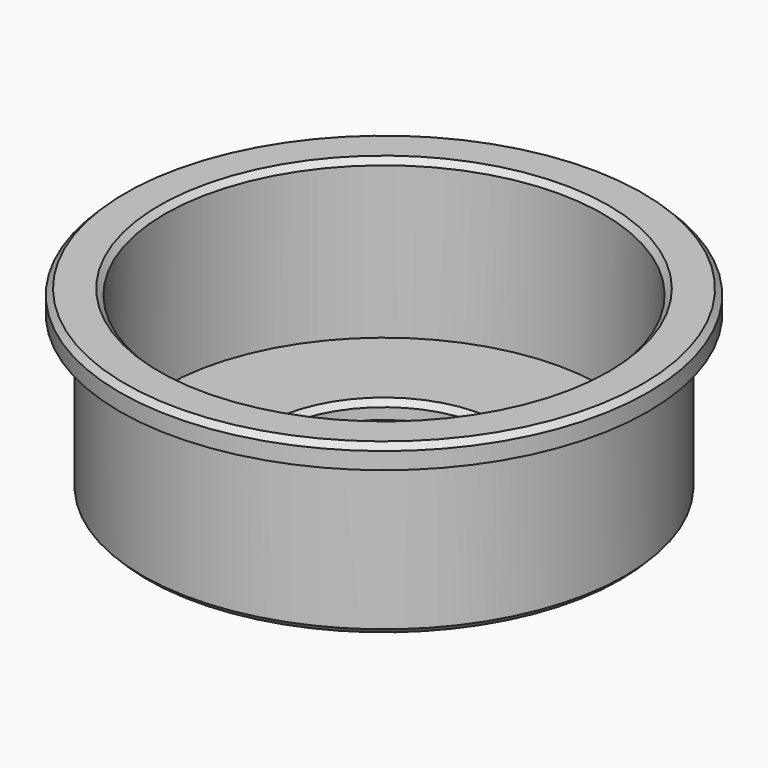
from build123d import *

# Parameters (mm, degrees)
F0_R     = 21.5
F0_R_2   = 10
F1_DEPTH = 2
F2_R     = 21.5
F2_R_2   = 19.5
F3_DEPTH = 12
F4_R     = 23.5
F4_R_2   = 21.5
F4_R_3   = 19.5
F5_DEPTH = 2
F6_SIZE  = 0.5
F7_SIZE  = 0.5
F8_SIZE  = 0.5


with BuildPart() as f1:
    # F0 (on Top) → F1 (new body)
    with BuildSketch(Plane.XY):
        Circle(F0_R)
        Circle(F0_R_2, mode=Mode.SUBTRACT)
    extrude(amount=F1_DEPTH)

    # F2 (on face) → F3 (join)
    with BuildSketch(Plane.XY.offset(2)):
        Circle(F2_R)
        Circle(F2_R_2, mode=Mode.SUBTRACT)
    extrude(amount=F3_DEPTH)

    # F4 (on face) → F5 (join)
    with BuildSketch(Plane.XY.offset(14)):
        Circle(F4_R)
        Circle(F4_R_2, mode=Mode.SUBTRACT)
        Circle(F4_R_2)
        Circle(F4_R_3, mode=Mode.SUBTRACT)
    extrude(amount=F5_DEPTH)

    # F6
    f6_edges = [f1.edges().sort_by_distance(p)[0] for p in [
        (-21.5, 0, 0),
    ]]
    chamfer(f6_edges, length=F6_SIZE)

    # F7
    f7_edges = [f1.edges().sort_by_distance(p)[0] for p in [
        (-10, 0, 2),
        (-10, 0, 0),
    ]]
    chamfer(f7_edges, length=F7_SIZE)

    # F8
    f8_edges = [f1.edges().sort_by_distance(p)[0] for p in [
        (-23.5, 0, 16),
        (-19.5, 0, 16),
    ]]
    chamfer(f8_edges, length=F8_SIZE)


solid = f1.part
